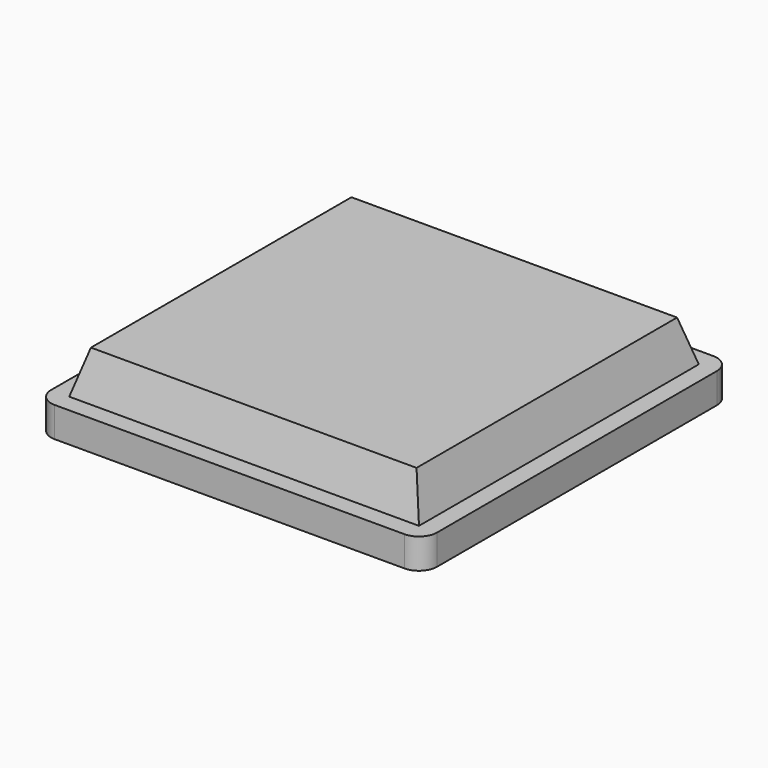
from build123d import *

# Parameters (mm, degrees)
F0_W     = 32
F0_H     = 32
F1_DEPTH = 2.5
F2_W     = 29
F2_H     = 29
F4_W     = 27
F4_H     = 27
F6_R     = 1.5


with BuildPart() as f1:
    # F0 (on Top) → F1 (new body)
    with BuildSketch(Plane.XY):
        Rectangle(F0_W, F0_H)
    extrude(amount=F1_DEPTH)

    # F2 (on face) → F5 section 0
    with BuildSketch(Plane.XY.offset(2.5)):
        Rectangle(F2_W, F2_H)
    # F4 (on offset) → F5 section 1
    with BuildSketch(Plane.XY.offset(6)):
        Rectangle(F4_W, F4_H)
    loft()

    # F6
    f6_edges = [f1.edges().sort_by_distance(p)[0] for p in [
        (16, 16, 1.25),
        (16, -16, 1.25),
        (-16, 16, 1.25),
        (-16, -16, 1.25),
    ]]
    fillet(f6_edges, radius=F6_R)


solid = f1.part
